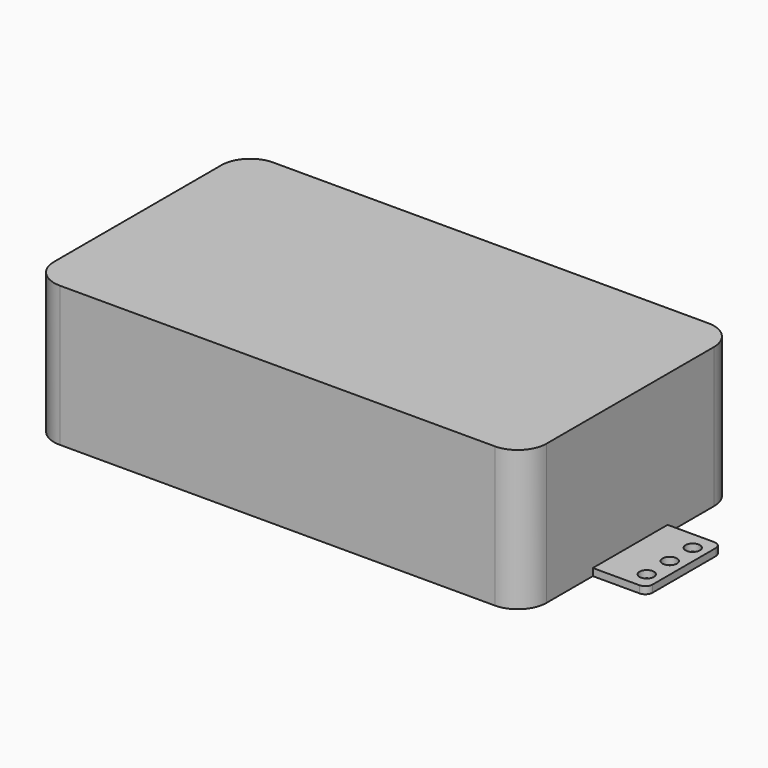
from build123d import *

# Parameters (mm, degrees)
F0_R     = 1
F1_DEPTH = 19.5
F2_W     = 7.5
F2_H     = 18.5
F3_DEPTH = 12.5


with BuildPart() as f1:
    # F0 (on Top) → F1 (new body)
    with BuildSketch(Plane.XY):
        with BuildLine():
            Line((30.25, 18.55), (-30.25, 18.55))
            ThreePointArc((-30.25, 18.55), (-33.078427, 17.378427), (-34.25, 14.55))
            Line((-34.25, 14.55), (-34.25, 6.5))
            Line((-34.25, 6.5), (-34.25, -6.5))
            Line((-34.25, -6.5), (-34.25, -14.55))
            ThreePointArc((-34.25, -14.55), (-33.078427, -17.378427), (-30.25, -18.55))
            Line((-30.25, -18.55), (30.25, -18.55))
            ThreePointArc((30.25, -18.55), (33.078427, -17.378427), (34.25, -14.55))
            Line((34.25, -14.55), (34.25, -6.5))
            Line((34.25, -6.5), (34.25, 6.5))
            Line((34.25, 6.5), (34.25, 14.55))
            ThreePointArc((34.25, 14.55), (33.078427, 17.378427), (30.25, 18.55))
        make_face()
        with BuildLine():
            Line((-34.25, -6.5), (-34.25, 6.5))
            Line((-34.25, 6.5), (-40.75, 6.5))
            ThreePointArc((-40.75, 6.5), (-41.457107, 6.207107), (-41.75, 5.5))
            Line((-41.75, 5.5), (-41.75, -5.5))
            ThreePointArc((-41.75, -5.5), (-41.457107, -6.207107), (-40.75, -6.5))
            Line((-40.75, -6.5), (-34.25, -6.5))
        make_face()
        with Locations((-39.75, -4)):
            Circle(F0_R, mode=Mode.SUBTRACT)
        with Locations((-39.75, 0)):
            Circle(F0_R, mode=Mode.SUBTRACT)
        with Locations((-39.75, 4)):
            Circle(F0_R, mode=Mode.SUBTRACT)
        with BuildLine():
            Line((40.75, 6.5), (34.25, 6.5))
            Line((34.25, 6.5), (34.25, -6.5))
            Line((34.25, -6.5), (40.75, -6.5))
            ThreePointArc((40.75, -6.5), (41.457107, -6.207107), (41.75, -5.5))
            Line((41.75, -5.5), (41.75, 5.5))
            ThreePointArc((41.75, 5.5), (41.457107, 6.207107), (40.75, 6.5))
        make_face()
        with Locations((39.75, -4)):
            Circle(F0_R, mode=Mode.SUBTRACT)
        with Locations((39.75, 0)):
            Circle(F0_R, mode=Mode.SUBTRACT)
        with Locations((39.75, 4)):
            Circle(F0_R, mode=Mode.SUBTRACT)
    extrude(amount=F1_DEPTH)

    # F2 (on Front) → F3 (cut, symmetric)
    with BuildSketch(Plane.XZ):
        with Locations((-38, 10.25)):
            Rectangle(F2_W, F2_H)
        with Locations((38, 10.25)):
            Rectangle(F2_W, F2_H)
    extrude(amount=F3_DEPTH, both=True, mode=Mode.SUBTRACT)


solid = f1.part
